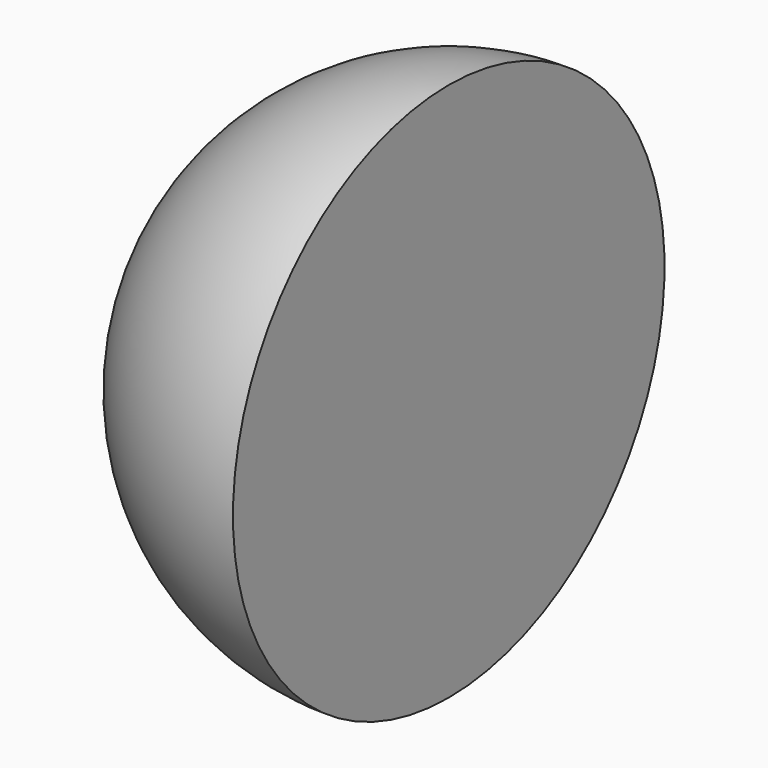
from build123d import *

# Parameters (mm, degrees)
F1_ANGLE_BACK = 90
F1_ANGLE      = 180


with BuildPart() as f1:
    # F0 (on Front) → F1 (revolve)
    with BuildSketch(Plane.XZ, mode=Mode.PRIVATE) as f1_sk:
        with BuildLine():
            Line((0, -8.3513273907), (0, 8.3513273907))
            ThreePointArc((0, 8.3513273907), (-8.3513273907, 0), (0, -8.3513273907))
        make_face()
    revolve(f1_sk.sketch.rotate(Axis((0, 0, 0), (0, 0, -1)), -F1_ANGLE_BACK), axis=Axis((0, 0, 0), (0, 0, -1)), revolution_arc=F1_ANGLE)


solid = f1.part
